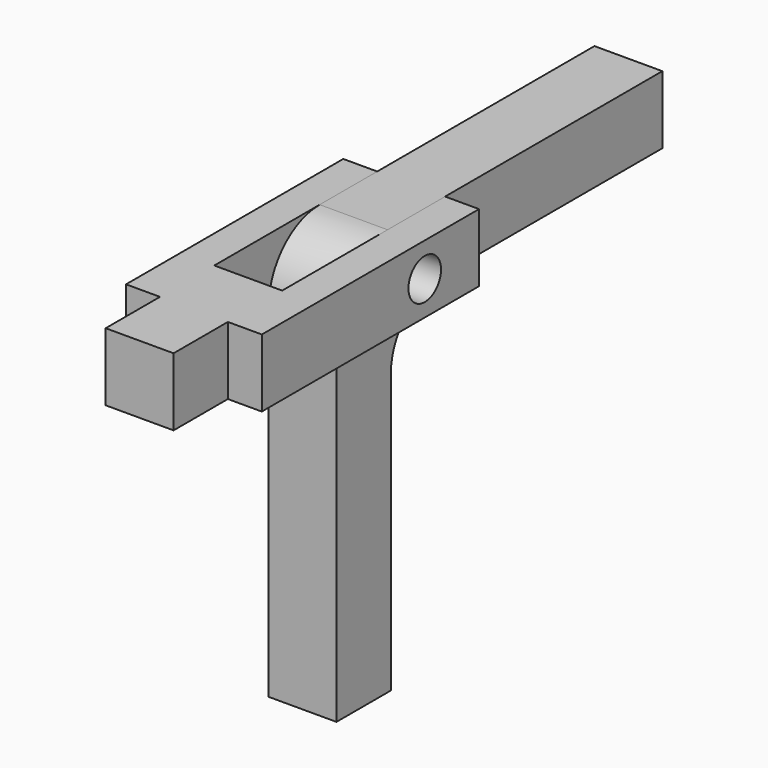
from build123d import *

# Parameters (mm, degrees)
F1_DEPTH = 5
F3_DEPTH = 5
F4_R     = 1.5
F5_DEPTH = 10


with BuildPart() as f1:
    # F0 (on Right) → F1 (new body)
    with BuildSketch(Plane.YZ):
        with BuildLine():
            Line((30, 0), (4.7, 0))
            ThreePointArc((4.7, 0), (1.376598, -1.376598), (0, -4.7))
            Line((0, -4.7), (0, -5))
            Line((0, -5), (0, -30))
            Line((0, -30), (5, -30))
            Line((5, -30), (5, -9.5))
            ThreePointArc((5, -9.5), (6.318019, -6.318019), (9.5, -5))
            Line((9.5, -5), (30, -5))
            Line((30, -5), (30, 0))
        make_face()
    extrude(amount=F1_DEPTH)


with BuildPart() as f3:
    # F2 (on face) → F3 (new body, through all)
    with BuildSketch(Plane.XY):
        Polygon((7.5, 10), (5, 10), (5, -5), (0, -5), (0, 10), (-2.5, 10), (-2.5, -10), (0, -10), (0, -15), (5, -15), (5, -10), (7.5, -10), align=None)
    extrude(amount=-F3_DEPTH)


with BuildPart() as f5_tool:
    # F4 (on face) → F5 (new body, through all)
    with BuildSketch(Plane(origin=(-2.5, 0, 0), x_dir=(0, -1, 0), z_dir=(-1, 0, 0))):
        with Locations((-5, -2.5)):
            Circle(F4_R)
    extrude(amount=-F5_DEPTH)


with BuildPart() as f1_1:
    add(f1.part)

    # F5: cut by f5_tool
    add(f5_tool.part, mode=Mode.SUBTRACT)


with BuildPart() as f3_1:
    add(f3.part)

    # F5: cut by f5_tool
    add(f5_tool.part, mode=Mode.SUBTRACT)


solid = Compound([f1_1.part, f3_1.part])
